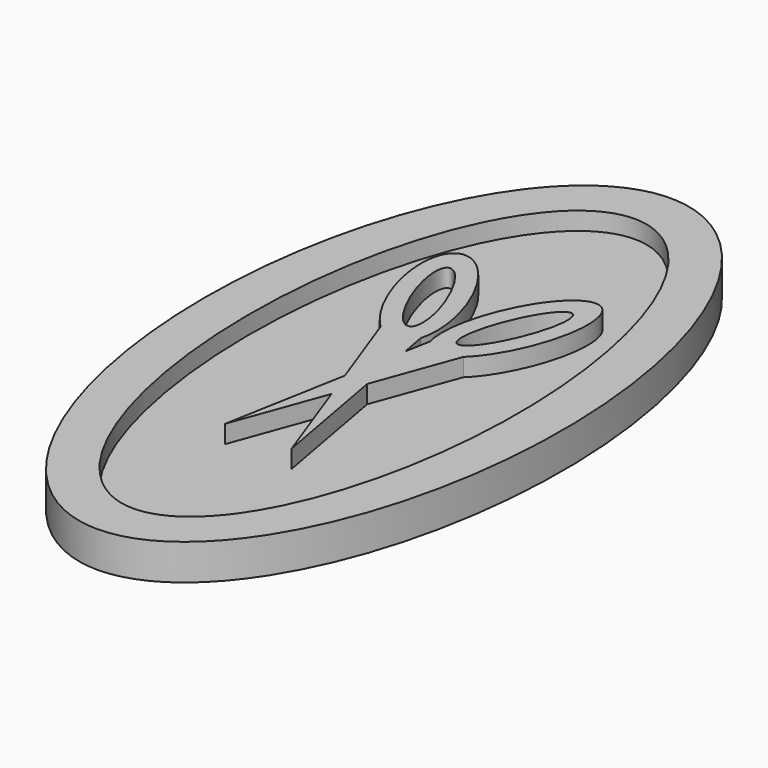
from build123d import *

# Parameters (mm, degrees)
F1_DEPTH = 2.54
F3_DEPTH = 1.27
F5_DEPTH = 1.524


with BuildPart() as f1:
    # F0 (on Top) → F1 (new body)
    with BuildSketch(Plane.XY):
        with BuildLine():
            add(Edge.make_bspline(
                [(0, -25.4), (21.9970452561, -25.4), (10.9985226281, 12.7), (0, 50.8), (-10.9985226281, 12.7), (-21.9970452561, -25.4), (0, -25.4)],
                knots=[0, 0, 0, 2.0943951024, 2.0943951024, 4.1887902048, 4.1887902048, 6.2831853072, 6.2831853072, 6.2831853072], degree=2, weights=[1, 0.5, 1, 0.5, 1, 0.5, 1]))
        make_face()
    extrude(amount=F1_DEPTH)

    # F2 (on face) → F3 (cut)
    with BuildSketch(Plane.XY.offset(2.54)):
        with BuildLine():
            add(Edge.make_bspline(
                [(0, 22.225), (-16.4977839421, 22.225), (-8.248891971, -11.1125), (0, -44.45), (8.248891971, -11.1125), (16.4977839421, 22.225), (0, 22.225)],
                knots=[0, 0, 0, 2.0943951024, 2.0943951024, 4.1887902048, 4.1887902048, 6.2831853072, 6.2831853072, 6.2831853072], degree=2, weights=[1, 0.5, 1, 0.5, 1, 0.5, 1]))
        make_face()
    extrude(amount=-F3_DEPTH, mode=Mode.SUBTRACT)

    # F4 (on face) → F5 (join)
    with BuildSketch(Plane.XY.offset(2.54)):
        with BuildLine():
            add(Edge.make_bspline(
                [(0.3297728111, 3.6804318489), (0.5657367724, 2.8783101994), (1.1033461902, 2.6746350671)],
                knots=[5.7843294893, 5.7843294893, 5.7843294893, 6.2831853072, 6.2831853072, 6.2831853072], degree=2, weights=[1, 0.9690538007, 1]))
            add(Edge.make_bspline(
                [(1.1033461902, 2.6746350671), (1.8765393485, 2.3817082441), (2.9253001029, 3.3684975191)],
                knots=[0, 0, 0, 0.7023453847, 0.7023453847, 0.7023453847], degree=2, weights=[1, 0.9389699534, 1]))
            add(Edge.make_bspline(
                [(2.9253001029, 3.3684975191), (12.1696881356, 12.066632843), (4.7540509214, 12.9578551513), (-2.6615862927, 13.8490774597), (0.3297728111, 3.6804318489)],
                knots=[0.7023453847, 0.7023453847, 0.7023453847, 3.243337437, 3.243337437, 5.7843294893, 5.7843294893, 5.7843294893], degree=2, weights=[1, 0.2958070815, 1, 0.2958070815, 1]))
        make_face()
        with BuildLine():
            add(Edge.make_bspline(
                [(1.6890727122, 4.3742504076), (3.3136882068, 3.7310790464), (4.5291047053, 9.1745846807), (5.7445212038, 14.6180903149), (2.9044892107, 9.8177560418), (0.0644572176, 5.0174217688), (1.6890727122, 4.3742504076)],
                knots=[0, 0, 0, 2.0943951024, 2.0943951024, 4.1887902048, 4.1887902048, 6.2831853072, 6.2831853072, 6.2831853072], degree=2, weights=[1, 0.5, 1, 0.5, 1, 0.5, 1]))
        make_face(mode=Mode.SUBTRACT)
        with BuildLine():
            add(Edge.make_bspline(
                [(1.1033461902, 2.6746350671), (1.8765393485, 2.3817082441), (2.9253001029, 3.3684975191)],
                knots=[0, 0, 0, 0.7023453847, 0.7023453847, 0.7023453847], degree=2, weights=[1, 0.9389699534, 1]))
            add(Edge.make_bspline(
                [(0.3297728111, 3.6804318489), (0.5657367724, 2.8783101994), (1.1033461902, 2.6746350671)],
                knots=[5.7843294893, 5.7843294893, 5.7843294893, 6.2831853072, 6.2831853072, 6.2831853072], degree=2, weights=[1, 0.9690538007, 1]))
            Line((0.3297728111, 3.6804318489), (0, 1.8692559257))
            Line((0, 1.8692559257), (0.7917131185, -2.4789853176))
            Line((0.7917131185, -2.4789853176), (2.9253001029, 3.3684975191))
        make_face()
        Polygon((2.3689072113, -11.1412396654), (0.7917131185, -2.4789853176), (0, -4.6488189855), align=None)
        Polygon((0, -4.6488189855), (0.7917131185, -2.4789853176), (0, 1.8692559257), (-0.7917131185, -2.4789853176), align=None)
        with BuildLine():
            Line((-0.7917131185, -2.4789853176), (0, 1.8692559257))
            Line((0, 1.8692559257), (-0.3297728111, 3.6804318489))
            add(Edge.make_bspline(
                [(-1.1033461902, 2.6746350671), (-0.5657367724, 2.8783101994), (-0.3297728111, 3.6804318489)],
                knots=[0, 0, 0, 0.4988558179, 0.4988558179, 0.4988558179], degree=2, weights=[1, 0.9690538007, 1]))
            add(Edge.make_bspline(
                [(-2.9253001029, 3.3684975191), (-1.8765393485, 2.3817082441), (-1.1033461902, 2.6746350671)],
                knots=[5.5808399224, 5.5808399224, 5.5808399224, 6.2831853072, 6.2831853072, 6.2831853072], degree=2, weights=[1, 0.9389699534, 1]))
            Line((-2.9253001029, 3.3684975191), (-0.7917131185, -2.4789853176))
        make_face()
        Polygon((-2.3689072113, -11.1412396654), (0, -4.6488189855), (-0.7917131185, -2.4789853176), align=None)
        with BuildLine():
            add(Edge.make_bspline(
                [(-1.1033461902, 2.6746350671), (-0.5657367724, 2.8783101994), (-0.3297728111, 3.6804318489)],
                knots=[0, 0, 0, 0.4988558179, 0.4988558179, 0.4988558179], degree=2, weights=[1, 0.9690538007, 1]))
            add(Edge.make_bspline(
                [(-0.3297728111, 3.6804318489), (2.6615862927, 13.8490774597), (-4.7540509214, 12.9578551513), (-12.1696881356, 12.066632843), (-2.9253001029, 3.3684975191)],
                knots=[0.4988558179, 0.4988558179, 0.4988558179, 3.0398478702, 3.0398478702, 5.5808399224, 5.5808399224, 5.5808399224], degree=2, weights=[1, 0.2958070815, 1, 0.2958070815, 1]))
            add(Edge.make_bspline(
                [(-2.9253001029, 3.3684975191), (-1.8765393485, 2.3817082441), (-1.1033461902, 2.6746350671)],
                knots=[5.5808399224, 5.5808399224, 5.5808399224, 6.2831853072, 6.2831853072, 6.2831853072], degree=2, weights=[1, 0.9389699534, 1]))
        make_face()
        with BuildLine():
            add(Edge.make_bspline(
                [(-1.6890727122, 4.3742504076), (-0.0644572176, 5.0174217688), (-2.9044892107, 9.8177560418), (-5.7445212038, 14.6180903149), (-4.5291047053, 9.1745846807), (-3.3136882068, 3.7310790464), (-1.6890727122, 4.3742504076)],
                knots=[0, 0, 0, 2.0943951024, 2.0943951024, 4.1887902048, 4.1887902048, 6.2831853072, 6.2831853072, 6.2831853072], degree=2, weights=[1, 0.5, 1, 0.5, 1, 0.5, 1]))
        make_face(mode=Mode.SUBTRACT)
    extrude(amount=-F5_DEPTH)


solid = f1.part
